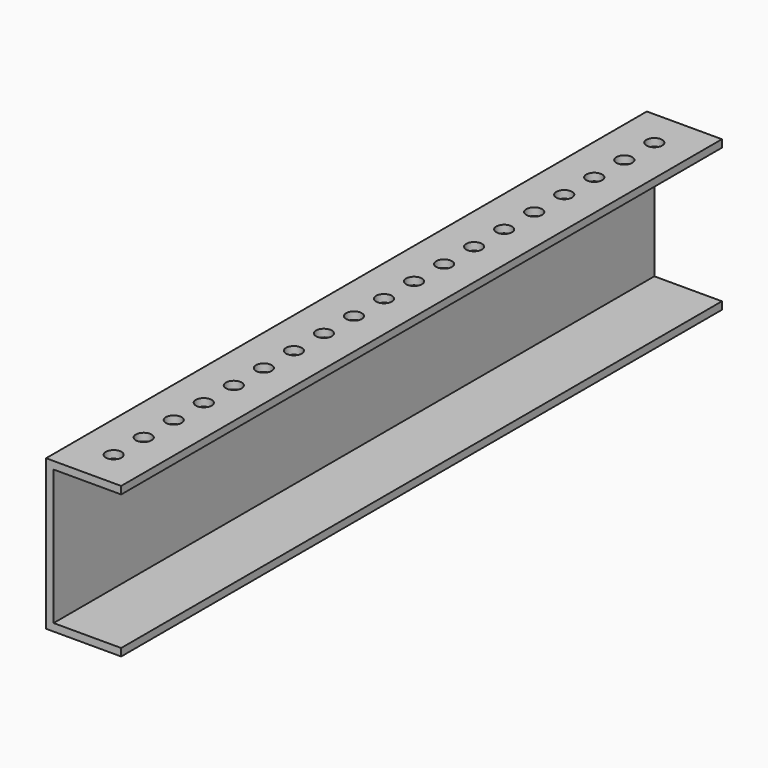
from build123d import *

# Parameters (mm, degrees)
F1_DEPTH = 127
F2_R     = 2.667
F3_DEPTH = 2.54


with BuildPart() as f1:
    # F0 (on Front) → F1 (new body, symmetric)
    with BuildSketch(Plane.XZ):
        Polygon((25.4, 22.86), (25.4, 25.4), (0, 25.4), (0, -25.4), (25.4, -25.4), (25.4, -22.86), (2.54, -22.86), (2.54, 22.86), align=None)
    extrude(amount=F1_DEPTH, both=True)

    # F2 (on face) → F3 (cut)
    with BuildSketch(Plane.XY.offset(25.4)):
        with Locations((12.7, -50.8)):
            Circle(F2_R)
        with Locations((12.7, -63.5)):
            Circle(F2_R)
        with Locations((12.7, -114.3)):
            Circle(F2_R)
        with Locations((12.7, 101.6)):
            Circle(F2_R)
        with Locations((12.7, -76.2)):
            Circle(F2_R)
        with Locations((12.7, 76.2)):
            Circle(F2_R)
        with Locations((12.7, 88.9)):
            Circle(F2_R)
        with Locations((12.7, 50.8)):
            Circle(F2_R)
        with Locations((12.7, -101.6)):
            Circle(F2_R)
        with Locations((12.7, -25.4)):
            Circle(F2_R)
        with Locations((12.7, -38.1)):
            Circle(F2_R)
        with Locations((12.7, 12.7)):
            Circle(F2_R)
        with Locations((12.7, -88.9)):
            Circle(F2_R)
        with Locations((12.7, -12.7)):
            Circle(F2_R)
        with Locations((12.7, 25.4)):
            Circle(F2_R)
        with Locations((12.7, 38.1)):
            Circle(F2_R)
        with Locations((12.7, 0)):
            Circle(F2_R)
        with Locations((12.7, 63.5)):
            Circle(F2_R)
        with Locations((12.7, 114.3)):
            Circle(F2_R)
    extrude(amount=-F3_DEPTH, mode=Mode.SUBTRACT)


solid = f1.part
